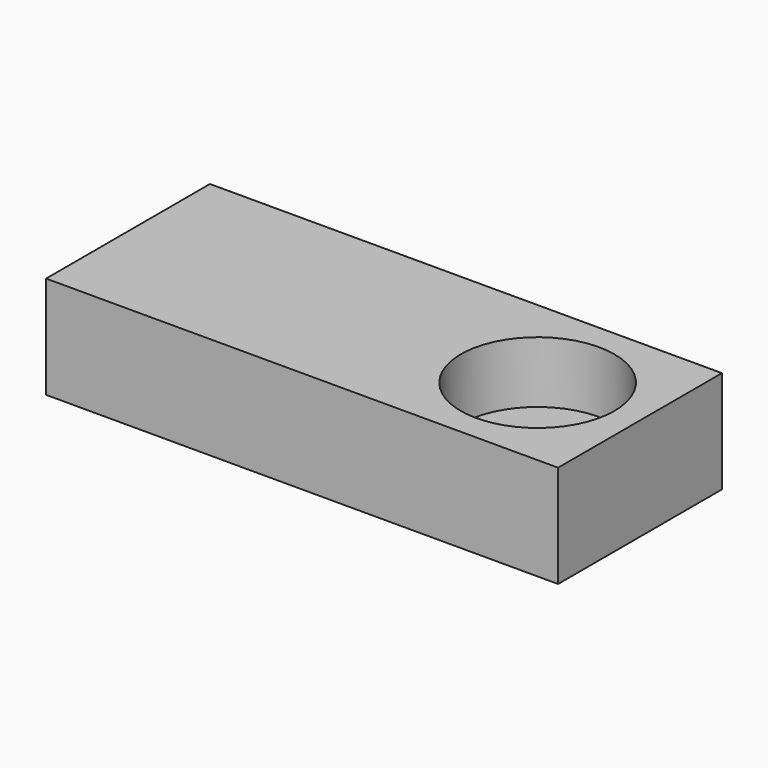
from build123d import *

# Parameters (mm, degrees)
F0_W     = 50
F0_H     = 20
F1_DEPTH = 5
F2_R     = 7.5
F3_DEPTH = 6


with BuildPart() as f1:
    # F0 (on Top) → F1 (new body, symmetric)
    with BuildSketch(Plane.XY):
        with Locations((-15, 0)):
            Rectangle(F0_W, F0_H)
    extrude(amount=F1_DEPTH, both=True)

    # F2 (on face) → F3 (cut)
    with BuildSketch(Plane.XY.offset(5)):
        Circle(F2_R)
    extrude(amount=-F3_DEPTH, mode=Mode.SUBTRACT)


solid = f1.part
